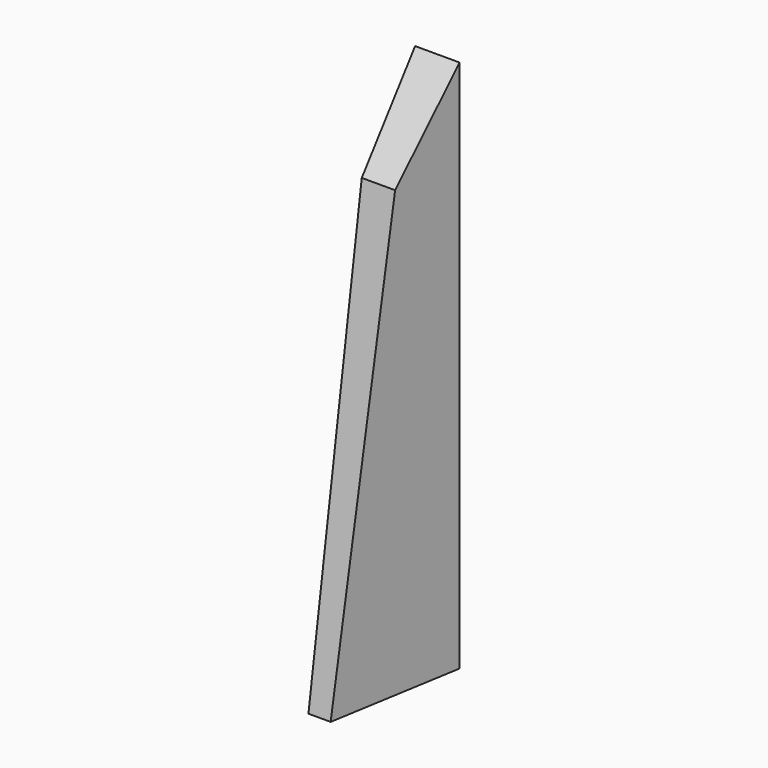
from build123d import *

# Parameters (mm, degrees)
F1_DEPTH = 12.7
F2_R     = 3.175
F3_DEPTH = 25.4
F5_DEPTH = 254


with BuildPart() as f1:
    # F0 (on Right) → F1 (new body)
    with BuildSketch(Plane.YZ):
        Polygon((19.05, 127), (0, 0), (38.1, 0), (38.1, 152.4), align=None)
    extrude(amount=F1_DEPTH)

    # F2 (on face) → F3 (cut)
    with BuildSketch(Plane(origin=(0, 0, 0), x_dir=(1, 0, 0), z_dir=(0, 0, -1))):
        with Locations((5.715, -22.225)):
            Circle(F2_R)
    extrude(amount=-F3_DEPTH, mode=Mode.SUBTRACT)

    # F4 (on face) → F5 (cut)
    with BuildSketch(Plane(origin=(0, 0, 0), x_dir=(1, 0, 0), z_dir=(0, 0, -1))):
        Polygon((6.35, 0), (12.7, -38.1), (12.7, 0), align=None)
    extrude(amount=-F5_DEPTH, mode=Mode.SUBTRACT)


solid = f1.part
